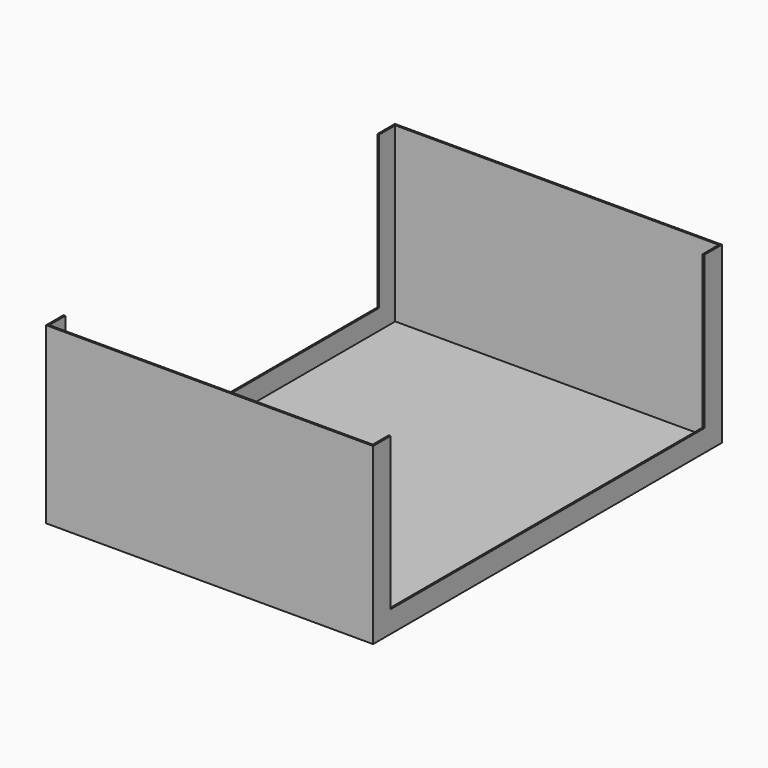
from build123d import *

# Parameters (mm, degrees)
BOX002_W     = 160
BOX002_H     = 180
BOX002_DEPTH = 80
BOX001_W     = 148.4
BOX001_H     = 198.4
BOX001_DEPTH = 89
BOX_W        = 150
BOX_H        = 200
BOX_DEPTH    = 80


with BuildPart() as cube002:
    # Box002 → Box002 (new body)
    with BuildSketch(Plane(origin=(-5, 10, 10), x_dir=(1, 0, 0), z_dir=(0, 0, 1))):
        with Locations((80, 90)):
            Rectangle(BOX002_W, BOX002_H)
    extrude(amount=BOX002_DEPTH)


with BuildPart() as cube001:
    # Box001 → Box001 (new body)
    with BuildSketch(Plane(origin=(0.8, 0.8, 0.8), x_dir=(1, 0, 0), z_dir=(0, 0, 1))):
        with Locations((74.2, 99.2)):
            Rectangle(BOX001_W, BOX001_H)
    extrude(amount=BOX001_DEPTH)


with BuildPart() as cut001:
    # Box → Box (new body)
    with BuildSketch(Plane.XY):
        with Locations((75, 100)):
            Rectangle(BOX_W, BOX_H)
    extrude(amount=BOX_DEPTH)

    # Cut: cut Cube001
    add(cube001.part, mode=Mode.SUBTRACT)

    # Cut001: cut Cube002
    add(cube002.part, mode=Mode.SUBTRACT)


solid = cut001.part
